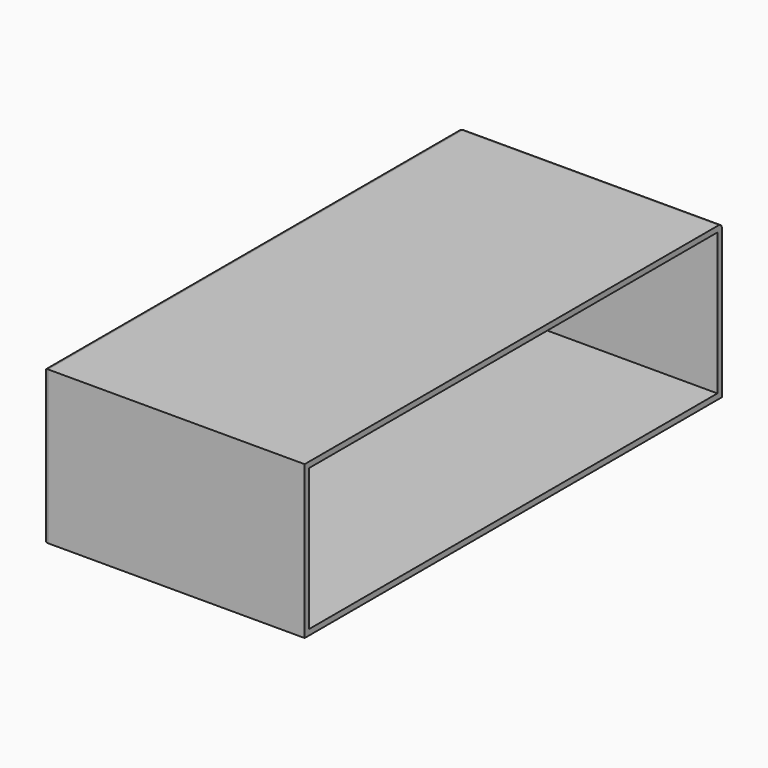
from build123d import *

# Parameters (mm, degrees)
BOX003_W     = 8
BOX003_H     = 180
BOX003_DEPTH = 1.5
BOX004_W     = 8
BOX004_H     = 1.5
BOX004_DEPTH = 52
BOX005_W     = 8
BOX005_H     = 1.5
BOX005_DEPTH = 52
BOX002_W     = 12
BOX002_H     = 180
BOX002_DEPTH = 52
BOX_W        = 160
BOX_H        = 180
BOX_DEPTH    = 50
BOX001_W     = 92
BOX001_H     = 184
BOX001_DEPTH = 54
FILLET_R     = 1.5


with BuildPart() as cube003:
    # Box003 → Box003 (new body)
    with BuildSketch(Plane.XY.offset(48.5)):
        with Locations((4, 90)):
            Rectangle(BOX003_W, BOX003_H)
    extrude(amount=BOX003_DEPTH)


with BuildPart() as cube004:
    # Box004 → Box004 (new body)
    with BuildSketch(Plane.XY.offset(-2)):
        with Locations((4, 0.75)):
            Rectangle(BOX004_W, BOX004_H)
    extrude(amount=BOX004_DEPTH)


with BuildPart() as cube005:
    # Box005 → Box005 (new body)
    with BuildSketch(Plane(origin=(0, 178.5, -2), x_dir=(1, 0, 0), z_dir=(0, 0, 1))):
        with Locations((4, 0.75)):
            Rectangle(BOX005_W, BOX005_H)
    extrude(amount=BOX005_DEPTH)


with BuildPart() as cube002:
    # Box002 → Box002 (new body)
    with BuildSketch(Plane.XY.offset(-20)):
        with Locations((6, 90)):
            Rectangle(BOX002_W, BOX002_H)
    extrude(amount=BOX002_DEPTH)


with BuildPart() as cube:
    # Box → Box (new body)
    with BuildSketch(Plane.XY):
        with Locations((80, 90)):
            Rectangle(BOX_W, BOX_H)
    extrude(amount=BOX_DEPTH)


with BuildPart() as draft:
    # Box001 → Box001 (new body)
    with BuildSketch(Plane(origin=(0, -2, -2), x_dir=(1, 0, 0), z_dir=(0, 0, 1))):
        with Locations((46, 92)):
            Rectangle(BOX001_W, BOX001_H)
    extrude(amount=BOX001_DEPTH)

    # Cut: cut Cube
    add(cube.part, mode=Mode.SUBTRACT)

    # Cut001: cut Cube002
    add(cube002.part, mode=Mode.SUBTRACT)

    # Fusion: union Cube003, Cube004, Cube005
    add(cube003.part)
    add(cube004.part)
    add(cube005.part)

    # Fillet
    fillet_edges = [draft.edges().sort_by_distance(p)[0] for p in [
        (0, 90, 52),
        (0, 182, 25),
        (0, -2, 25),
        (46, 182, 52),
    ]]
    fillet(fillet_edges, radius=FILLET_R)


solid = draft.part
